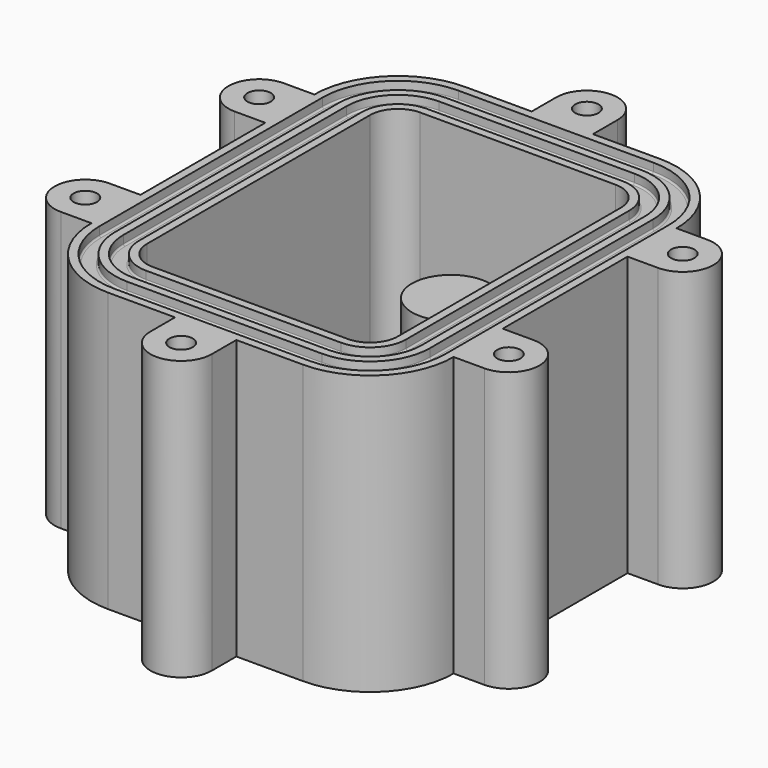
from build123d import *

# Parameters (mm, degrees)
F1_DEPTH  = 50
F3_DEPTH  = 7.5
F5_DEPTH  = 1.7
F7_D      = 4.2
F7_DEPTH  = 40
F7_TIP    = 1.2618073
F8_R      = 0.3
F9_R      = 7
F10_DEPTH = 25
F11_R     = 4
F12_DEPTH = 27.5
F14_D     = 12.6
F14_DEPTH = 40.6
F14_TIP   = 3.7854218999
F15_R     = 12.5
F15_R_2   = 9
F16_DEPTH = 2.1
F17_R     = 0.5


with BuildPart() as f1:
    # F0 (on Top) → F1 (new body)
    with BuildSketch(Plane.XY):
        with BuildLine():
            Line((-38, -25), (-32.5, -25))
            ThreePointArc((-32.5, -25), (-28.1066017178, -35.6066017178), (-17.5, -40))
            Line((-17.5, -40), (-5.5, -40))
            Line((-5.5, -40), (-5.5, -45.5))
            ThreePointArc((-5.5, -45.5), (0, -51), (5.5, -45.5))
            Line((5.5, -45.5), (5.5, -40))
            Line((5.5, -40), (17.5, -40))
            ThreePointArc((17.5, -40), (28.1066017178, -35.6066017178), (32.5, -25))
            Line((32.5, -25), (38, -25))
            ThreePointArc((38, -25), (43.5, -19.5), (38, -14))
            Line((38, -14), (32.5, -14))
            Line((32.5, -14), (32.5, 14))
            Line((32.5, 14), (38, 14))
            ThreePointArc((38, 14), (43.5, 19.5), (38, 25))
            Line((38, 25), (32.5, 25))
            ThreePointArc((32.5, 25), (28.1066017178, 35.6066017178), (17.5, 40))
            Line((17.5, 40), (5.5, 40))
            Line((5.5, 40), (5.5, 45.5))
            ThreePointArc((5.5, 45.5), (0, 51), (-5.5, 45.5))
            Line((-5.5, 45.5), (-5.5, 40))
            Line((-5.5, 40), (-17.5, 40))
            ThreePointArc((-17.5, 40), (-28.1066017178, 35.6066017178), (-32.5, 25))
            Line((-32.5, 25), (-38, 25))
            ThreePointArc((-38, 25), (-43.5, 19.5), (-38, 14))
            Line((-38, 14), (-32.5, 14))
            Line((-32.5, 14), (-32.5, -14))
            Line((-32.5, -14), (-38, -14))
            ThreePointArc((-38, -14), (-43.5, -19.5), (-38, -25))
        make_face()
        with BuildLine():
            Line((17.5, -30), (-17.5, -30))
            ThreePointArc((-17.5, -30), (-21.0355339059, -28.5355339059), (-22.5, -25))
            Line((-22.5, -25), (-22.5, 25))
            ThreePointArc((-22.5, 25), (-21.0355339059, 28.5355339059), (-17.5, 30))
            Line((-17.5, 30), (17.5, 30))
            ThreePointArc((17.5, 30), (21.0355339059, 28.5355339059), (22.5, 25))
            Line((22.5, 25), (22.5, -25))
            ThreePointArc((22.5, -25), (21.0355339059, -28.5355339059), (17.5, -30))
        make_face(mode=Mode.SUBTRACT)
    extrude(amount=F1_DEPTH)

    # F2 (on Top) + F0 (on Top) → F3 (join)
    with BuildSketch(Plane.XY):
        with BuildLine():
            ThreePointArc((38, 14), (43.5, 19.5), (38, 25))
            Line((38, 25), (32.5, 25))
            ThreePointArc((32.5, 25), (28.1066017178, 35.6066017178), (17.5, 40))
            Line((17.5, 40), (5.5, 40))
            Line((5.5, 40), (5.5, 45.5))
            ThreePointArc((5.5, 45.5), (0, 51), (-5.5, 45.5))
            Line((-5.5, 45.5), (-5.5, 40))
            Line((-5.5, 40), (-17.5, 40))
            ThreePointArc((-17.5, 40), (-28.1066017178, 35.6066017178), (-32.5, 25))
            Line((-32.5, 25), (-38, 25))
            ThreePointArc((-38, 25), (-43.5, 19.5), (-38, 14))
            Line((-38, 14), (-32.5, 14))
            Line((-32.5, 14), (-32.5, -14))
            Line((-32.5, -14), (-38, -14))
            ThreePointArc((-38, -14), (-43.5, -19.5), (-38, -25))
            Line((-38, -25), (-32.5, -25))
            ThreePointArc((-32.5, -25), (-28.1066017178, -35.6066017178), (-17.5, -40))
            Line((-17.5, -40), (-5.5, -40))
            Line((-5.5, -40), (-5.5, -45.5))
            ThreePointArc((-5.5, -45.5), (0, -51), (5.5, -45.5))
            Line((5.5, -45.5), (5.5, -40))
            Line((5.5, -40), (17.5, -40))
            ThreePointArc((17.5, -40), (28.1066017178, -35.6066017178), (32.5, -25))
            Line((32.5, -25), (38, -25))
            ThreePointArc((38, -25), (43.5, -19.5), (38, -14))
            Line((38, -14), (32.5, -14))
            Line((32.5, -14), (32.5, 14))
            Line((32.5, 14), (38, 14))
        make_face()
    with BuildSketch(Plane.XY):
        with BuildLine():
            Line((-38, -25), (-32.5, -25))
            ThreePointArc((-32.5, -25), (-28.1066017178, -35.6066017178), (-17.5, -40))
            Line((-17.5, -40), (-5.5, -40))
            Line((-5.5, -40), (-5.5, -45.5))
            ThreePointArc((-5.5, -45.5), (0, -51), (5.5, -45.5))
            Line((5.5, -45.5), (5.5, -40))
            Line((5.5, -40), (17.5, -40))
            ThreePointArc((17.5, -40), (28.1066017178, -35.6066017178), (32.5, -25))
            Line((32.5, -25), (38, -25))
            ThreePointArc((38, -25), (43.5, -19.5), (38, -14))
            Line((38, -14), (32.5, -14))
            Line((32.5, -14), (32.5, 14))
            Line((32.5, 14), (38, 14))
            ThreePointArc((38, 14), (43.5, 19.5), (38, 25))
            Line((38, 25), (32.5, 25))
            ThreePointArc((32.5, 25), (28.1066017178, 35.6066017178), (17.5, 40))
            Line((17.5, 40), (5.5, 40))
            Line((5.5, 40), (5.5, 45.5))
            ThreePointArc((5.5, 45.5), (0, 51), (-5.5, 45.5))
            Line((-5.5, 45.5), (-5.5, 40))
            Line((-5.5, 40), (-17.5, 40))
            ThreePointArc((-17.5, 40), (-28.1066017178, 35.6066017178), (-32.5, 25))
            Line((-32.5, 25), (-38, 25))
            ThreePointArc((-38, 25), (-43.5, 19.5), (-38, 14))
            Line((-38, 14), (-32.5, 14))
            Line((-32.5, 14), (-32.5, -14))
            Line((-32.5, -14), (-38, -14))
            ThreePointArc((-38, -14), (-43.5, -19.5), (-38, -25))
        make_face()
        with BuildLine():
            Line((17.5, -30), (-17.5, -30))
            ThreePointArc((-17.5, -30), (-21.0355339059, -28.5355339059), (-22.5, -25))
            Line((-22.5, -25), (-22.5, 25))
            ThreePointArc((-22.5, 25), (-21.0355339059, 28.5355339059), (-17.5, 30))
            Line((-17.5, 30), (17.5, 30))
            ThreePointArc((17.5, 30), (21.0355339059, 28.5355339059), (22.5, 25))
            Line((22.5, 25), (22.5, -25))
            ThreePointArc((22.5, -25), (21.0355339059, -28.5355339059), (17.5, -30))
        make_face(mode=Mode.SUBTRACT)
    extrude(amount=F3_DEPTH)

    # F4 (on face) → F5 (cut)
    with BuildSketch(Plane.XY.offset(50)):
        with BuildLine():
            Line((17.5, 38.5333333333), (-17.5, 38.5333333333))
            ThreePointArc((-17.5, 38.5333333333), (-27.0695117721, 34.5695117721), (-31.0333333333, 25))
            Line((-31.0333333333, 25), (-31.0333333333, -25))
            ThreePointArc((-31.0333333333, -25), (-27.0695117721, -34.5695117721), (-17.5, -38.5333333333))
            Line((-17.5, -38.5333333333), (17.5, -38.5333333333))
            ThreePointArc((17.5, -38.5333333333), (27.0695117721, -34.5695117721), (31.0333333333, -25))
            Line((31.0333333333, -25), (31.0333333333, 25))
            ThreePointArc((31.0333333333, 25), (27.0695117721, 34.5695117721), (17.5, 38.5333333333))
        make_face()
        with BuildLine():
            ThreePointArc((-28.2333333333, 25), (-25.0896127847, 32.5896127847), (-17.5, 35.7333333333))
            Line((-17.5, 35.7333333333), (17.5, 35.7333333333))
            ThreePointArc((17.5, 35.7333333333), (25.0896127847, 32.5896127847), (28.2333333333, 25))
            Line((28.2333333333, 25), (28.2333333333, -25))
            ThreePointArc((28.2333333333, -25), (25.0896127847, -32.5896127847), (17.5, -35.7333333333))
            Line((17.5, -35.7333333333), (-17.5, -35.7333333333))
            ThreePointArc((-17.5, -35.7333333333), (-25.0896127847, -32.5896127847), (-28.2333333333, -25))
            Line((-28.2333333333, -25), (-28.2333333333, 25))
        make_face(mode=Mode.SUBTRACT)
        with BuildLine():
            Line((17.5, 34.2666666667), (-17.5, 34.2666666667))
            ThreePointArc((-17.5, 34.2666666667), (-24.052522839, 31.552522839), (-26.7666666667, 25))
            Line((-26.7666666667, 25), (-26.7666666667, -25))
            ThreePointArc((-26.7666666667, -25), (-24.052522839, -31.552522839), (-17.5, -34.2666666667))
            Line((-17.5, -34.2666666667), (17.5, -34.2666666667))
            ThreePointArc((17.5, -34.2666666667), (24.052522839, -31.552522839), (26.7666666667, -25))
            Line((26.7666666667, -25), (26.7666666667, 25))
            ThreePointArc((26.7666666667, 25), (24.052522839, 31.552522839), (17.5, 34.2666666667))
        make_face()
        with BuildLine():
            ThreePointArc((-23.9666666667, 25), (-22.0726238517, 29.5726238517), (-17.5, 31.4666666667))
            Line((-17.5, 31.4666666667), (17.5, 31.4666666667))
            ThreePointArc((17.5, 31.4666666667), (22.0726238517, 29.5726238517), (23.9666666667, 25))
            Line((23.9666666667, 25), (23.9666666667, -25))
            ThreePointArc((23.9666666667, -25), (22.0726238517, -29.5726238517), (17.5, -31.4666666667))
            Line((17.5, -31.4666666667), (-17.5, -31.4666666667))
            ThreePointArc((-17.5, -31.4666666667), (-22.0726238517, -29.5726238517), (-23.9666666667, -25))
            Line((-23.9666666667, -25), (-23.9666666667, 25))
        make_face(mode=Mode.SUBTRACT)
    extrude(amount=-F5_DEPTH, mode=Mode.SUBTRACT)

    # F7
    with Locations(Plane.XY.offset(50)):
        with Locations((-38, 19.5), (0, 45.5), (38, 19.5), (38, -19.5), (0, -45.5), (-38, -19.5)):
            Hole(F7_D / 2, depth=F7_DEPTH)
            with Locations((0, 0, -(F7_DEPTH + F7_TIP / 2))):  # 118° drill point
                Cone(0, F7_D / 2, F7_TIP, mode=Mode.SUBTRACT)

    # F8
    f8_edges = [f1.edges().sort_by_distance(p)[0] for p in [
        (31.033333, 0, 48.3),
        (27.069512, 34.569512, 48.3),
        (0, 38.533333, 48.3),
        (-27.069512, 34.569512, 48.3),
        (-31.033333, 0, 48.3),
        (-27.069512, -34.569512, 48.3),
        (0, -38.533333, 48.3),
        (27.069512, -34.569512, 48.3),
        (-25.089613, 32.589613, 48.3),
        (0, 35.733333, 48.3),
        (25.089613, 32.589613, 48.3),
        (28.233333, 0, 48.3),
        (25.089613, -32.589613, 48.3),
        (0, -35.733333, 48.3),
        (-25.089613, -32.589613, 48.3),
        (-28.233333, 0, 48.3),
        (24.052523, 31.552523, 48.3),
        (0, 34.266667, 48.3),
        (-24.052523, 31.552523, 48.3),
        (-26.766667, 0, 48.3),
        (-24.052523, -31.552523, 48.3),
        (0, -34.266667, 48.3),
        (24.052523, -31.552523, 48.3),
        (26.766667, 0, 48.3),
        (-22.072624, 29.572624, 48.3),
        (0, 31.466667, 48.3),
        (22.072624, 29.572624, 48.3),
        (23.966667, 0, 48.3),
        (22.072624, -29.572624, 48.3),
        (0, -31.466667, 48.3),
        (-22.072624, -29.572624, 48.3),
        (-23.966667, 0, 48.3),
    ]]
    fillet(f8_edges, radius=F8_R)

    # F9 (on face) → F10 (join)
    with BuildSketch(Plane.XY.offset(7.5)):
        with Locations((0, 15)):
            Circle(F9_R)
    extrude(amount=F10_DEPTH)

    # F11 (on face) → F12 (cut, through all)
    with BuildSketch(Plane(origin=(0, 0, 0), x_dir=(1, 0, 0), z_dir=(0, 0, -1))):
        with Locations((0, -15)):
            Circle(F11_R)
    extrude(amount=-F12_DEPTH, mode=Mode.SUBTRACT)

    # F14
    with Locations(Plane(origin=(0, 0, 0), x_dir=(1, 0, 0), z_dir=(0, 0, -1))):
        with Locations((0, 15)):
            Hole(F14_D / 2, depth=F14_DEPTH)
            with Locations((0, 0, -(F14_DEPTH + F14_TIP / 2))):  # 118° drill point
                Cone(0, F14_D / 2, F14_TIP, mode=Mode.SUBTRACT)

    # F15 (on face) → F16 (cut)
    with BuildSketch(Plane(origin=(0, 0, 0), x_dir=(1, 0, 0), z_dir=(0, 0, -1))):
        with Locations((0, 15)):
            Circle(F15_R)
        with Locations((0, 15)):
            Circle(F15_R_2, mode=Mode.SUBTRACT)
    extrude(amount=-F16_DEPTH, mode=Mode.SUBTRACT)

    # F17
    f17_edges = [f1.edges().sort_by_distance(p)[0] for p in [
        (-12.5, -15, 2.1),
        (-9, -15, 2.1),
    ]]
    fillet(f17_edges, radius=F17_R)


solid = f1.part
